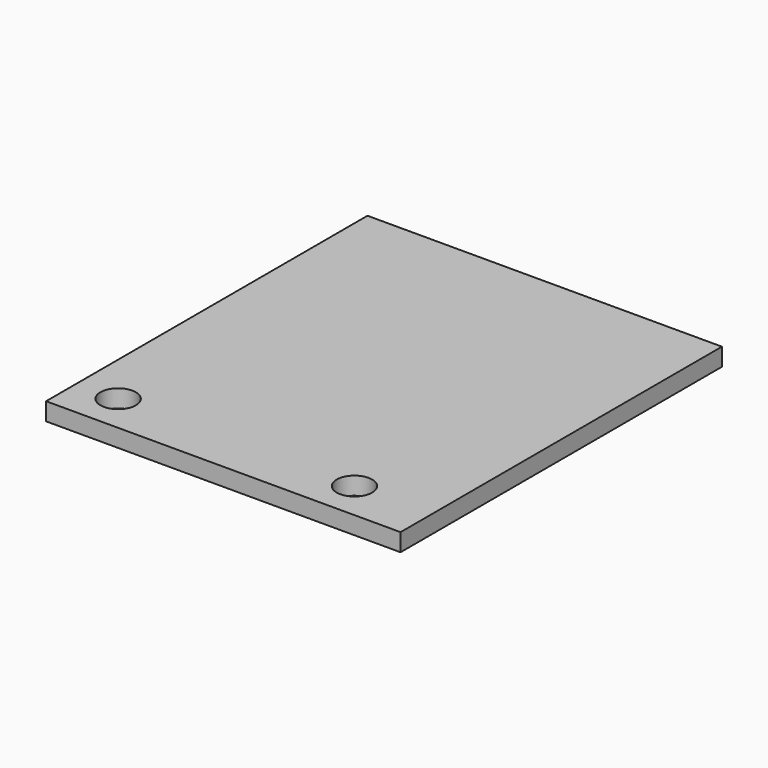
from build123d import *

# Parameters (mm, degrees)
CYLINDER018_R     = 1.5
CYLINDER018_DEPTH = 20
CYLINDER019_R     = 1.5
CYLINDER019_DEPTH = 20
BOX005_W          = 30
BOX005_H          = 34
BOX005_DEPTH      = 1.5


with BuildPart() as cylinder018:
    # Cylinder018 → Cylinder018 (new body)
    with BuildSketch(Plane(origin=(82, 15.25, 20), x_dir=(1, 0, 0), z_dir=(0, 0, 1))):
        Circle(CYLINDER018_R)
    extrude(amount=CYLINDER018_DEPTH)


with BuildPart() as fusion005:
    # Cylinder019 → Cylinder019 (new body)
    with BuildSketch(Plane(origin=(62, 15.25, 20), x_dir=(1, 0, 0), z_dir=(0, 0, 1))):
        Circle(CYLINDER019_R)
    extrude(amount=CYLINDER019_DEPTH)

    # Fusion005: union Cylinder018
    add(cylinder018.part)


with BuildPart() as sup_gps_a:
    # Box005 → Box005 (new body)
    with BuildSketch(Plane(origin=(58.5, 12, 35), x_dir=(1, 0, 0), z_dir=(0, 0, 1))):
        with Locations((15, 17)):
            Rectangle(BOX005_W, BOX005_H)
    extrude(amount=BOX005_DEPTH)

    # Cut005: cut Fusion005
    add(fusion005.part, mode=Mode.SUBTRACT)


solid = sup_gps_a.part
